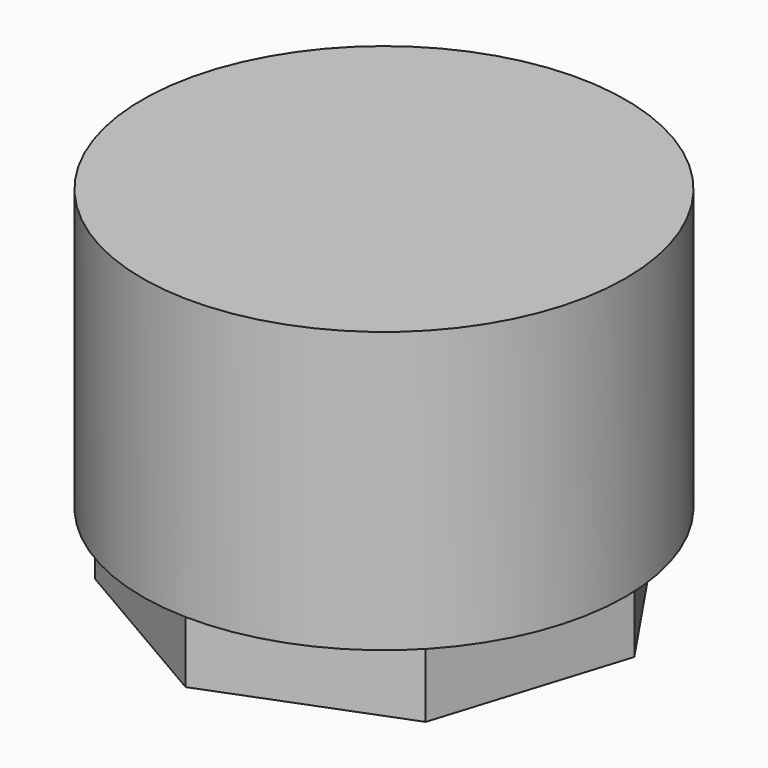
from build123d import *

# Parameters (mm, degrees)
F0_R     = 60.626412
F2_DEPTH = 70.271613
F3_DEPTH = 18.127655


with BuildPart() as f2:
    # F0 (on Top) → F2 (new body)
    with BuildSketch(Plane.XY):
        Circle(F0_R)
    extrude(amount=F2_DEPTH)

    # F1 (on face) → F3 (join)
    with BuildSketch(Plane.XY):
        Polygon((-20.55445, 52.941081), (-54.206494, 16.938108), (-47.039942, -31.819606), (-4.451355, -56.616507), (41.489194, -38.780024), (56.187533, 8.258608), (28.575514, 49.07834), align=None)
    extrude(amount=-F3_DEPTH)


solid = f2.part
